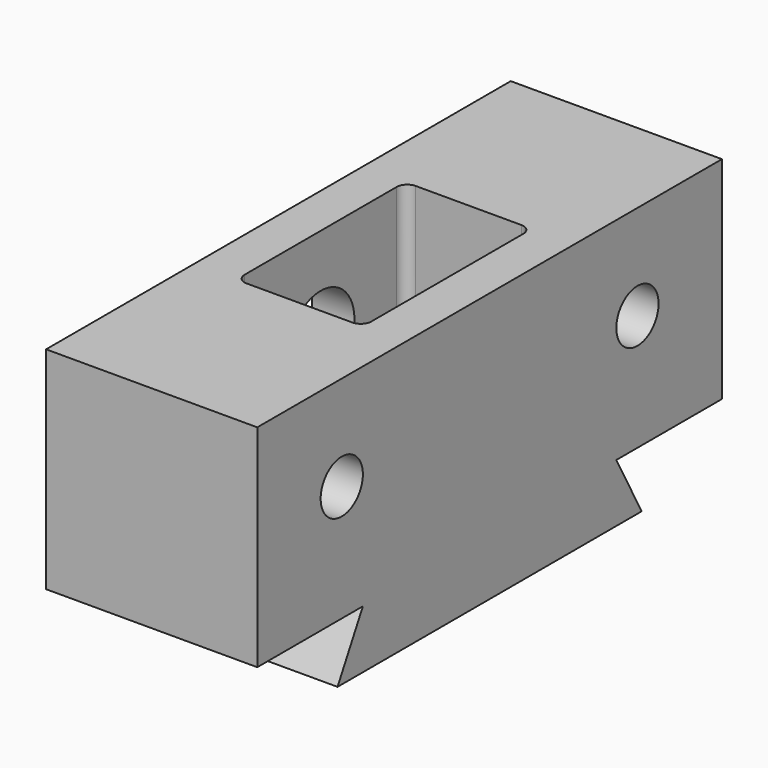
from build123d import *

# Parameters (mm, degrees)
F0_W     = 20
F0_H     = 55
F1_DEPTH = 25.5
F3_DEPTH = 16
F5_DEPTH = 25
F7_D     = 5
F7_DEPTH = 10
F7_TIP   = 1.5021515476
F9_D     = 8
F9_DEPTH = 10
F9_TIP   = 2.4034424761


with BuildPart() as f1:
    # F0 (on Top) → F1 (new body)
    with BuildSketch(Plane.XY):
        Rectangle(F0_W, F0_H)
    extrude(amount=F1_DEPTH)

    # F2 (on face) → F3 (cut)
    with BuildSketch(Plane.XY.offset(25.5)):
        with BuildLine():
            Line((5, 10), (-5, 10))
            ThreePointArc((-5, 10), (-5.7071067812, 9.7071067812), (-6, 9))
            Line((-6, 9), (-6, -9))
            ThreePointArc((-6, -9), (-5.7071067812, -9.7071067812), (-5, -10))
            Line((-5, -10), (5, -10))
            ThreePointArc((5, -10), (5.7071067812, -9.7071067812), (6, -9))
            Line((6, -9), (6, 9))
            ThreePointArc((6, 9), (5.7071067812, 9.7071067812), (5, 10))
        make_face()
    extrude(amount=-F3_DEPTH, mode=Mode.SUBTRACT)

    # F4 (on face) → F5 (cut)
    with BuildSketch(Plane.YZ.offset(10)):
        Polygon((-27.5, 0), (-18, 0), (-15, 5.5), (-27.5, 5.5), align=None)
        Polygon((27.5, 5.5), (15, 5.5), (18, 0), (27.5, 0), align=None)
    extrude(amount=-F5_DEPTH, mode=Mode.SUBTRACT)

    # F7
    with Locations(Plane.YZ.offset(10)):
        with Locations((-17.5, 16.5), (17.5, 16.5)):
            Hole(F7_D / 2, depth=F7_DEPTH)
            with Locations((0, 0, -(F7_DEPTH + F7_TIP / 2))):  # 118° drill point
                Cone(0, F7_D / 2, F7_TIP, mode=Mode.SUBTRACT)

    # F9
    with Locations(Plane(origin=(-10, 0, 0), x_dir=(0, -1, 0), z_dir=(-1, 0, 0))):
        with Locations((0, 16.5)):
            Hole(F9_D / 2, depth=F9_DEPTH)
            with Locations((0, 0, -(F9_DEPTH + F9_TIP / 2))):  # 118° drill point
                Cone(0, F9_D / 2, F9_TIP, mode=Mode.SUBTRACT)


solid = f1.part
